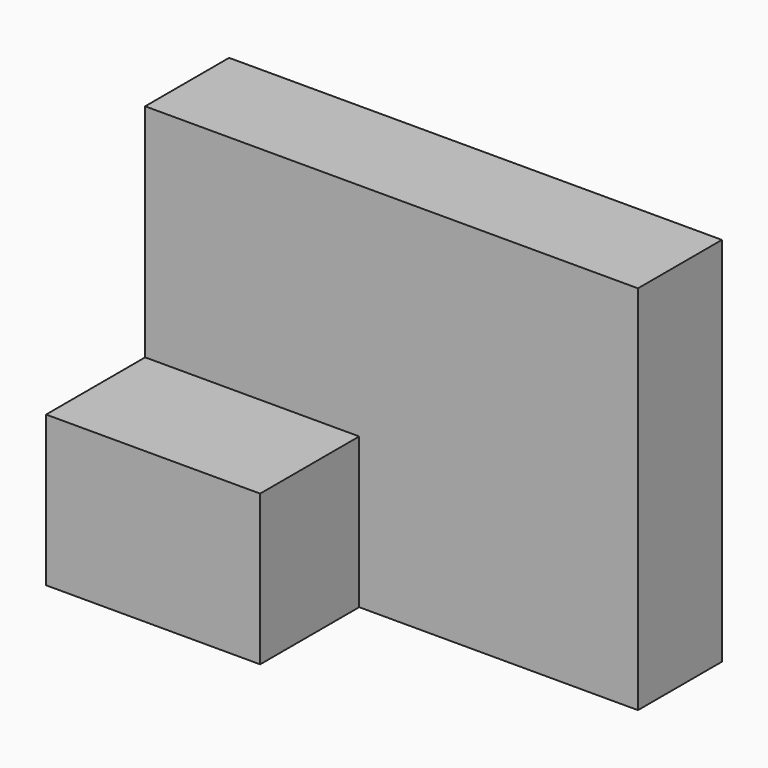
from build123d import *

# Parameters (mm, degrees)
F0_W     = 51.813709
F0_H     = 36.390092
F1_DEPTH = 55.372
F2_DEPTH = 25.4


with BuildPart() as f1:
    # F0 (on Front) → F1 (new body)
    with BuildSketch(Plane.XZ):
        with Locations((-32.172697, -18.195046)):
            Rectangle(F0_W, F0_H)
    extrude(amount=F1_DEPTH)

    # F0 (on Front) → F2 (join)
    with BuildSketch(Plane.XZ):
        Polygon((61.212473, 53.500663), (-58.079552, 53.500663), (-58.079552, 0), (-6.265843, 0), (-6.265843, -36.390092), (61.212473, -36.390092), align=None)
        with Locations((-32.172697, -18.195046)):
            Rectangle(F0_W, F0_H)
    extrude(amount=F2_DEPTH)


solid = f1.part
